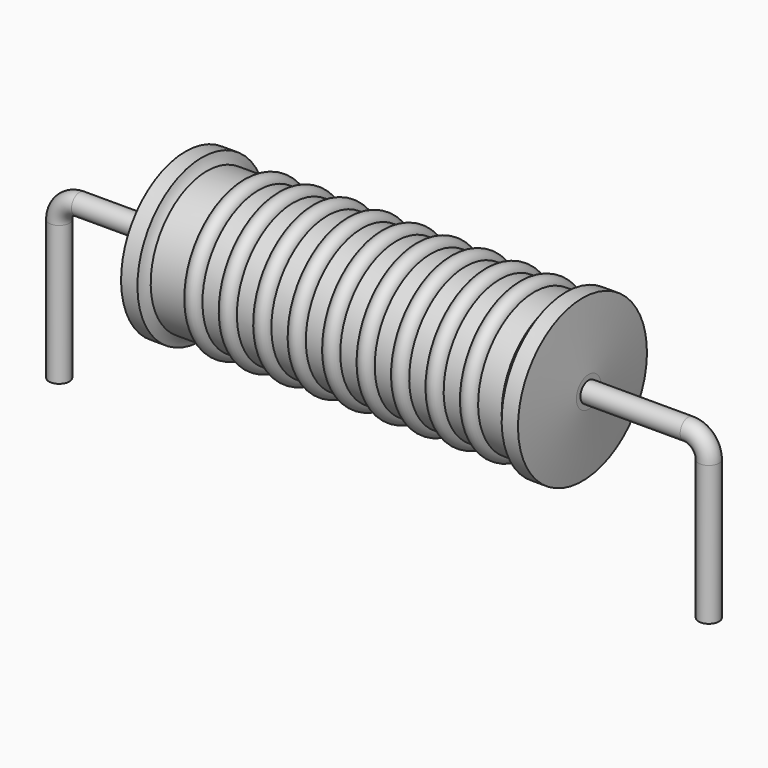
from build123d import *

# Parameters (mm, degrees)
SKETCH_R = 0.4


with BuildPart() as sweep_body:
    # Sweep: sweep along a path in Sketch001
    with BuildLine(Plane.XZ) as sweep_path:
        Line((0, -3), (0, 2.45))
        ThreePointArc((0, 2.45), (0.234311, 3.015682), (0.799991, 3.25))
        Line((0.799991, 3.25), (24.6, 3.25))
        ThreePointArc((24.6, 3.25), (25.165685, 3.015685), (25.4, 2.45))
        Line((25.4, 2.45), (25.4, -3))
    # Sketch → Sweep (sweep)
    with BuildSketch(Plane.XY.offset(-2)):
        Circle(SKETCH_R)
    sweep(path=sweep_path.line)


with BuildPart() as revolution:
    # Sketch002 → Revolution (revolve)
    with BuildSketch(Plane.XZ):
        with BuildLine():
            Line((4.94, 6.4), (5.58, 6.4))
            ThreePointArc((5.58, 6.4), (5.657022, 6.189121), (5.778, 6))
            Line((5.778, 6), (19.5, 6))
            ThreePointArc((19.5, 6), (19.680612, 6.18351), (19.82, 6.4))
            Line((19.82, 6.4), (20.46, 6.4))
            ThreePointArc((20.7, 3.85), (20.582487, 5.125234), (20.46, 6.4))
            Line((20.7, 3.25), (20.7, 3.85))
            Line((4.7, 3.25), (20.7, 3.25))
            Line((4.7, 3.25), (4.7, 3.85))
            ThreePointArc((4.94, 6.4), (4.817513, 5.125234), (4.7, 3.85))
        make_face()
    revolve(axis=Axis((4.7, 0, 3.25), (1, 0, 0)))


with BuildPart() as obj1:
    # Sketch003 → Revolution001 (revolve)
    with BuildSketch(Plane.XZ):
        with BuildLine():
            ThreePointArc((7.807368, 5.936), (7.470526, 6.272842), (7.133684, 5.936))
            Line((6.46, 5.936), (7.133684, 5.936))
            Line((6.46, 5.936), (6.46, 5.306))
            Line((6.46, 5.306), (19.26, 5.306))
            Line((19.26, 5.306), (19.26, 5.936))
            Line((18.586316, 5.936), (19.26, 5.936))
            ThreePointArc((18.586316, 5.936), (18.249474, 6.272842), (17.912632, 5.936))
            Line((17.238947, 5.936), (17.912632, 5.936))
            ThreePointArc((17.238947, 5.936), (16.902105, 6.272842), (16.565263, 5.936))
            Line((15.891579, 5.936), (16.565263, 5.936))
            ThreePointArc((15.891579, 5.936), (15.554737, 6.272842), (15.217895, 5.936))
            Line((14.544211, 5.936), (15.217895, 5.936))
            ThreePointArc((14.544211, 5.936), (14.207368, 6.272842), (13.870526, 5.936))
            Line((13.196842, 5.936), (13.870526, 5.936))
            ThreePointArc((13.196842, 5.936), (12.86, 6.272842), (12.523158, 5.936))
            Line((11.849474, 5.936), (12.523158, 5.936))
            ThreePointArc((11.849474, 5.936), (11.512632, 6.272842), (11.175789, 5.936))
            Line((10.502105, 5.936), (11.175789, 5.936))
            ThreePointArc((10.502105, 5.936), (10.165263, 6.272842), (9.828421, 5.936))
            Line((9.154737, 5.936), (9.828421, 5.936))
            ThreePointArc((9.154737, 5.936), (8.817895, 6.272842), (8.481053, 5.936))
            Line((7.807368, 5.936), (8.481053, 5.936))
        make_face()
    revolve(axis=Axis((5.1, 0, 3.25), (1, 0, 0)))

    # obj1: union Sweep body, Revolution
    add(sweep_body.part)
    add(revolution.part)


solid = obj1.part
